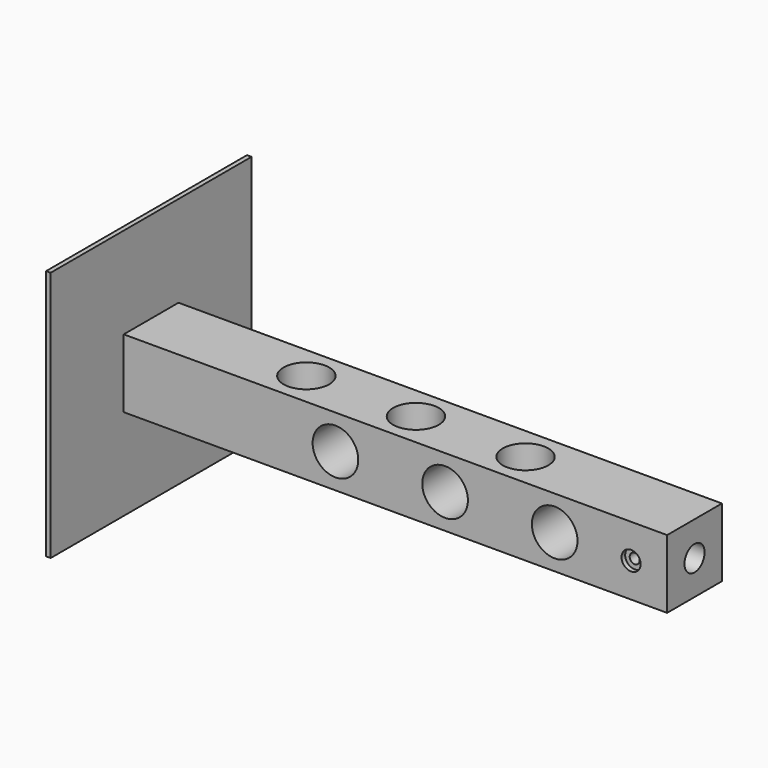
from build123d import *

# Parameters (mm, degrees)
F0_W      = 152.4
F0_H      = 19.05
F0_R      = 6.35
F1_DEPTH  = 19.05
F2_R      = 6.35
F3_DEPTH  = 25.4
F4_R      = 3.5000057
F5_DEPTH  = 25.4
F6_R      = 3.5000057
F7_DEPTH  = 22.86
F8_W      = 1.27
F8_H      = 19.05
F9_DEPTH  = 25.4
F11_DEPTH = 25.4
F13_DEPTH = 25.4
F15_DEPTH = 25.4
F17_DEPTH = 7.62
F18_DEPTH = 1.27


with BuildPart() as f1:
    # F0 (on Top) → F1 (new body)
    with BuildSketch(Plane.XY):
        with Locations((-5.8522596955, 7.7582320684)):
            Rectangle(F0_W, F0_H)
        with Locations((-37.6022596955, 7.7582320684)):
            Circle(F0_R, mode=Mode.SUBTRACT)
        with Locations((-7.1222596955, 7.7582320684)):
            Circle(F0_R, mode=Mode.SUBTRACT)
        with Locations((23.3577403045, 7.7582320684)):
            Circle(F0_R, mode=Mode.SUBTRACT)
    extrude(amount=F1_DEPTH)

    # F2 (on face) → F3 (cut)
    with BuildSketch(Plane(origin=(0, 17.2832320684, 0), x_dir=(-1, 0, 0), z_dir=(0, 1, 0))):
        with Locations((21.8949988484, 9.525)):
            Circle(F2_R)
        with Locations((-39.0761239581, 9.525)):
            Circle(F2_R)
        with Locations((-8.5961239581, 9.525)):
            Circle(F2_R)
    extrude(amount=-F3_DEPTH, mode=Mode.SUBTRACT)

    # F4 (on face) → F5 (cut)
    with BuildSketch(Plane(origin=(-82.0522596955, 0, 0), x_dir=(0, -1, 0), z_dir=(-1, 0, 0))):
        with Locations((-7.7582320684, 9.525)):
            Circle(F4_R)
    extrude(amount=-F5_DEPTH, mode=Mode.SUBTRACT)

    # F6 (on face) → F7 (cut)
    with BuildSketch(Plane.YZ.offset(70.3477403045)):
        with Locations((7.7582320684, 9.525)):
            Circle(F6_R)
    extrude(amount=-F7_DEPTH, mode=Mode.SUBTRACT)

    # F8 (on face) → F9 (join)
    with BuildSketch(Plane.XY.offset(19.05)):
        with Locations((-81.4172596955, 7.7582320684)):
            Rectangle(F8_W, F8_H)
    extrude(amount=F9_DEPTH)

    # F10 (on face) → F11 (join)
    with BuildSketch(Plane(origin=(0, 17.2832320684, 0), x_dir=(-1, 0, 0), z_dir=(0, 1, 0))):
        Polygon((80.7822596955, 44.45), (80.7822596955, 19.05), (80.7822596955, 0), (82.0522596955, 0), (82.0522596955, 44.45), align=None)
    extrude(amount=F11_DEPTH)

    # F12 (on face) → F13 (join)
    with BuildSketch(Plane.XZ.offset(1.7667679316)):
        Polygon((-80.7822596955, 0), (-80.7822596955, 19.05), (-80.7822596955, 44.45), (-82.0522596955, 44.45), (-82.0522596955, 0), align=None)
    extrude(amount=F13_DEPTH)

    # F14 (on face) → F15 (join)
    with BuildSketch(Plane(origin=(0, 0, 0), x_dir=(1, 0, 0), z_dir=(0, 0, -1))):
        Polygon((-80.7822596955, -17.2832320684), (-80.7822596955, 1.7667679316), (-80.7822596955, 27.1667679316), (-82.0522596955, 27.1667679316), (-82.0522596955, -42.6832320684), (-80.7822596955, -42.6832320684), align=None)
    extrude(amount=F15_DEPTH)

    # F16 (on face) → F17 (cut)
    with BuildSketch(Plane.XZ.offset(1.7667679316)):
        with BuildLine():
            Line((58.9223379939, 9.525), (61.7163379939, 9.525))
            ThreePointArc((61.7163379939, 9.525), (60.3193379939, 10.922), (58.9223379939, 9.525))
        make_face()
        with BuildLine():
            ThreePointArc((58.9223379939, 9.525), (60.3193379939, 8.128), (61.7163379939, 9.525))
            Line((61.7163379939, 9.525), (58.9223379939, 9.525))
        make_face()
    extrude(amount=-F17_DEPTH, mode=Mode.SUBTRACT)

    # F16 (on face) → F18 (cut)
    with BuildSketch(Plane.XZ.offset(1.7667679316)):
        with BuildLine():
            ThreePointArc((57.6650379939, 9.525), (60.3193379939, 6.8707), (62.9736379939, 9.525))
            Line((62.9736379939, 9.525), (61.7163379939, 9.525))
            ThreePointArc((61.7163379939, 9.525), (60.3193379939, 8.128), (58.9223379939, 9.525))
            Line((58.9223379939, 9.525), (57.6650379939, 9.525))
        make_face()
        with BuildLine():
            Line((61.7163379939, 9.525), (62.9736379939, 9.525))
            ThreePointArc((62.9736379939, 9.525), (60.3193379939, 12.1793), (57.6650379939, 9.525))
            Line((57.6650379939, 9.525), (58.9223379939, 9.525))
            ThreePointArc((58.9223379939, 9.525), (60.3193379939, 10.922), (61.7163379939, 9.525))
        make_face()
    extrude(amount=-F18_DEPTH, mode=Mode.SUBTRACT)


solid = f1.part
